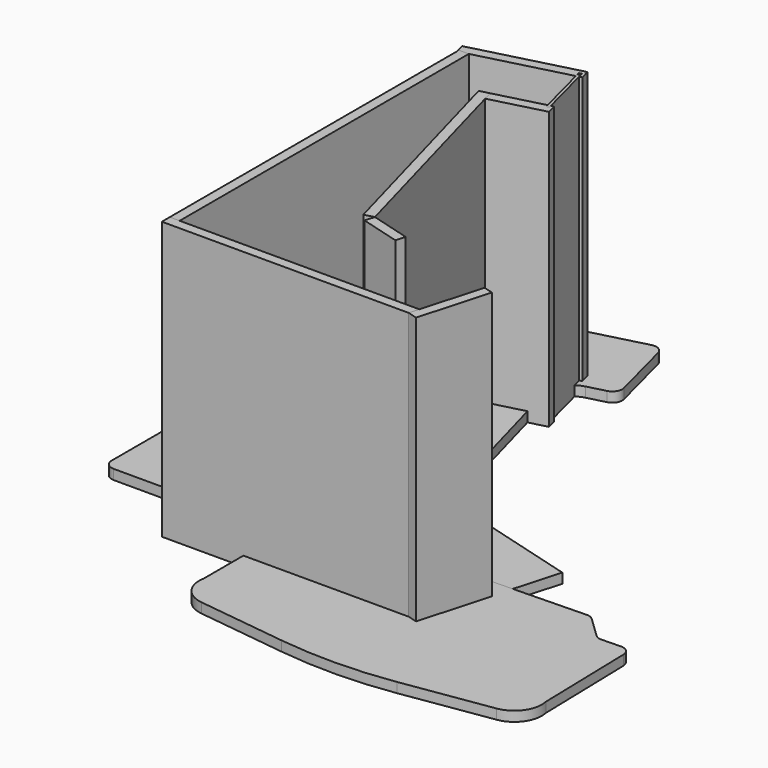
from build123d import *

# Parameters (mm, degrees)
F12_DEPTH = 18
F13_DEPTH = 504
F4_W      = 453.5115820138
F4_H      = 18


with BuildPart() as f12:
    # F9 (on Top) → F12 (new body)
    with BuildSketch(Plane.XY):
        with BuildLine():
            Line((-429.3817631771, 122.0754157483), (28.9864571738, 122.0754157483))
            ThreePointArc((28.9864571738, 122.0754157483), (39.8535736292, 125.7259983405), (46.3127671781, 135.1969957544))
            Line((46.3127671781, 135.1969957544), (78.9340205229, 251.0553984518))
            Line((78.9340205229, 251.0553984518), (-133.042143326, 310.7397025937))
            Line((-133.042143326, 310.7397025937), (-137.3737208271, 311.9593075922))
            Line((-137.3737208271, 311.9593075922), (-140.1796967751, 312.749362091))
            Line((-140.1796967751, 312.749362091), (-139.3896422763, 315.555338039))
            Line((-139.3896422763, 315.555338039), (-138.2825334442, 319.4873715371))
            ThreePointArc((-138.2825334442, 319.4873715371), (-138.4631106495, 321.0074168073), (-139.6656323342, 321.9545637591))
            Line((-139.6656323342, 321.9545637591), (-140.7590331261, 322.2624232101))
            ThreePointArc((-140.7590331261, 322.2624232101), (-184.576005593, 348.018267908), (-210.0724603784, 391.9866816348))
            Line((-210.0724603784, 391.9866816348), (-241.8817631771, 507.5754157483))
            Line((-241.8817631771, 507.5754157483), (-277.3817631771, 636.5754157483))
            Line((-277.3817631771, 636.5754157483), (-284.5491614764, 662.6203278781))
            ThreePointArc((-284.5491614764, 662.6203278781), (-280.1214549097, 697.0805388885), (-252.4699002319, 718.1162763898))
            Line((-252.4699002319, 718.1162763898), (-219.8457280188, 726.5860134067))
            ThreePointArc((-219.8457280188, 726.5860134067), (-208.8510002454, 734.8872643352), (-206.9464245034, 748.5315817251))
            Line((-206.9464245034, 748.5315817251), (-236.7237128133, 863.2292848446))
            ThreePointArc((-236.7237128133, 863.2292848446), (-245.0249637419, 874.2240126181), (-258.6692811317, 876.12858836))
            Line((-258.6692811317, 876.12858836), (-433.9048955786, 830.6347269171))
            ThreePointArc((-433.9048955786, 830.6347269171), (-443.6193258763, 824.2255470304), (-447.3817631771, 813.2122910002))
            Line((-447.3817631771, 813.2122910002), (-447.3817631771, 630.5646466931))
            Line((-447.3817631771, 630.5646466931), (-447.3817631771, 501.5646466931))
            Line((-447.3817631771, 501.5646466931), (-447.3817631771, 297.5646466931))
            Line((-447.3817631771, 297.5646466931), (-447.3817631771, 140.0754157483))
            ThreePointArc((-447.3817631771, 140.0754157483), (-442.1096852384, 127.347493687), (-429.3817631771, 122.0754157483))
        make_face()
    extrude(amount=F12_DEPTH)


with BuildPart() as f12b:
    # F10 (on Top) → F12, piece 2 (new body)
    with BuildSketch(Plane.XY):
        with BuildLine():
            Line((-617.2272465994, 102.2053729474), (-158.8590262485, 102.2053729474))
            ThreePointArc((-158.8590262485, 102.2053729474), (-147.9919097931, 105.8559555396), (-141.5327162442, 115.3269529535))
            Line((-141.5327162442, 115.3269529535), (-108.9114628994, 231.1853556509))
            Line((-108.9114628994, 231.1853556509), (-320.8876267483, 290.8696597928))
            Line((-320.8876267483, 290.8696597928), (-325.2192042494, 292.0892647913))
            Line((-325.2192042494, 292.0892647913), (-328.1245565168, 292.9072998251))
            Line((-328.1245565168, 292.9072998251), (-327.3065214829, 295.8126520925))
            Line((-327.3065214829, 295.8126520925), (-326.2273931858, 299.6453092712))
            ThreePointArc((-326.2273931858, 299.6453092712), (-326.4079703912, 301.1653545414), (-327.6104920759, 302.1125014932))
            Line((-327.6104920759, 302.1125014932), (-328.6045165484, 302.3923804091))
            ThreePointArc((-328.6045165484, 302.3923804091), (-372.4214890153, 328.1482251071), (-397.9179438007, 372.1166388339))
            Line((-397.9179438007, 372.1166388339), (-429.7272465994, 487.7053729474))
            Line((-429.7272465994, 487.7053729474), (-465.2272465994, 616.7053729474))
            Line((-465.2272465994, 616.7053729474), (-472.3946448986, 642.7502850772))
            ThreePointArc((-472.3946448986, 642.7502850772), (-467.966938332, 677.2104960876), (-440.3153836541, 698.2462335889))
            Line((-440.3153836541, 698.2462335889), (-407.6912114411, 706.7159706058))
            ThreePointArc((-407.6912114411, 706.7159706058), (-396.6964836677, 715.0172215343), (-394.7919079257, 728.6615389242))
            Line((-394.7919079257, 728.6615389242), (-424.5691962356, 843.3592420437))
            ThreePointArc((-424.5691962356, 843.3592420437), (-432.8704471642, 854.3539698172), (-446.514764554, 856.2585455591))
            Line((-446.514764554, 856.2585455591), (-621.7503790009, 810.7646841162))
            ThreePointArc((-621.7503790009, 810.7646841162), (-631.4648092986, 804.3555042295), (-635.2272465994, 793.3422481993))
            Line((-635.2272465994, 793.3422481993), (-635.2272465994, 610.6946038922))
            Line((-635.2272465994, 610.6946038922), (-635.2272465994, 481.6946038922))
            Line((-635.2272465994, 481.6946038922), (-635.2272465994, 277.6946038922))
            Line((-635.2272465994, 277.6946038922), (-635.2272465994, 120.2053729474))
            ThreePointArc((-635.2272465994, 120.2053729474), (-629.9551686607, 107.4774508861), (-617.2272465994, 102.2053729474))
        make_face()
    extrude(amount=F12_DEPTH)


with BuildPart() as f12c:
    # F11 (on Top) → F12, piece 3 (new body)
    with BuildSketch(Plane.XY):
        with BuildLine():
            Line((-2.114153737, 166.5), (-191.5736835543, 166.5))
            ThreePointArc((-191.5736835543, 166.5), (-198.5034431957, 165.112598572), (-204.3649407901, 161.1642701459))
            Line((-204.3649407901, 161.1642701459), (-241.3228965013, 123.8357298541))
            ThreePointArc((-241.3228965013, 123.8357298541), (-247.1843940957, 119.887401428), (-254.114153737, 118.5))
            Line((-254.114153737, 118.5), (-288.8032333315, 118.5))
            ThreePointArc((-288.8032333315, 118.5), (-301.5311553929, 113.2279220614), (-306.8032333315, 100.5))
            Line((-306.8032333315, 100.5), (-306.8032333315, -81.5))
            ThreePointArc((-306.8032333315, -81.5), (-297.9458808392, -120.018294448), (-263.8872117477, -140.0711934921))
            Line((-263.8872117477, -140.0711934921), (-101.5105416408, -160.6067478645))
            ThreePointArc((-101.5105416408, -160.6067478645), (2.1138129142, -166.4731585248), (105.5558033474, -157.9774980923))
            Line((105.5558033474, -157.9774980923), (267.3587007934, -133.3256347457))
            ThreePointArc((267.3587007934, -133.3256347457), (300.8972230342, -112.4144122501), (308.7736962041, -73.683638042))
            Line((308.7736962041, -73.683638042), (304.152507581, 108.2576838607))
            ThreePointArc((304.152507581, 108.2576838607), (298.5589528669, 120.8476382471), (285.7012702762, 125.7948398994))
            Line((285.7012702762, 125.7948398994), (251.0233746882, 124.914044405))
            ThreePointArc((251.0233746882, 124.914044405), (244.0606215382, 126.1250439842), (238.1007611478, 129.9232692982))
            Line((238.1007611478, 129.9232692982), (200.2069065179, 166.3013697428))
            ThreePointArc((200.2069065179, 166.3013697428), (194.2470461275, 170.0995950568), (187.2842929774, 171.310594636))
            Line((187.2842929774, 171.310594636), (-2.114153737, 166.5))
        make_face()
    extrude(amount=F12_DEPTH)


with BuildPart() as f13:
    # F2 (on Top) → F13 (new body)
    with BuildSketch(Plane.XY):
        Polygon((-271.0965097661, 726.7375479236), (-266.2569442336, 727.9939735907), (-270.7800766351, 745.4164095076), (-459.5231324015, 696.4158084913), (-455, 678.9933725744), (-275.9360752985, 725.4811222565), (-278.4489266327, 735.1602533215), (-273.6093611002, 736.4166789886), align=None)
    extrude(amount=F13_DEPTH)


with BuildPart() as f13b:
    # F1 (on Top) → F13, piece 2 (new body)
    with BuildSketch(Plane.XY):
        Polygon((-155.660380149, 188.6642868454), (-227.8533385, 208.9910368199), (-232.7317584939, 191.6647268157), (-160.5388001429, 171.3379768411), align=None)
    extrude(amount=F13_DEPTH)


with BuildPart() as f13c:
    # F4 (on Top) → F13, piece 3 (new body)
    with BuildSketch(Plane.XY):
        with Locations((-228.2442089931, 17.9933725744)):
            Rectangle(F4_W, F4_H)
    extrude(amount=F13_DEPTH)


with BuildPart() as f13d:
    # F3 (on Top) → F13, piece 4 (new body)
    with BuildSketch(Plane.XY):
        Polygon((-337.7116489579, 608.1944748218), (-332.9352006771, 590.8378036043), (-237.1078687572, 615.7160532374), (-241.6310011587, 633.1384891543), (-246.4705666912, 631.8820634872), (-245.2141410241, 627.0424979547), (-250.0537065566, 625.7860722876), (-251.3101322237, 630.6256378201), align=None)
    extrude(amount=F13_DEPTH)


with BuildPart() as f13e:
    # F5 (on Top) → F13, piece 5 (new body)
    with BuildSketch(Plane.XY):
        Polygon((-337.7116489579, 608.1944748218), (-355.1359263378, 603.6708643482), (-245.2776158799, 204.4674263463), (-227.8533385, 208.9910368199), align=None)
    extrude(amount=F13_DEPTH)


with BuildPart() as f13f:
    # F6 (on Top) → F13, piece 6 (new body)
    with BuildSketch(Plane.XY):
        Polygon((-437, 678.9933725744), (-437, 683.6664494975), (-455, 683.6664494975), (-455, 26.9933725744), (-437, 26.9933725744), align=None)
    extrude(amount=F13_DEPTH)


with BuildPart() as f13g:
    # F7 (on Top) → F13, piece 7 (new body)
    with BuildSketch(Plane.XY):
        Polygon((46.6900559198, 131.6902160334), (29.3637459156, 136.5686360273), (-6.5565230743, 8.9933725744), (10.7697869299, 4.1149525805), align=None)
    extrude(amount=F13_DEPTH)


with BuildPart() as f13h:
    # F8 (on Top) → F13, piece 8 (new body)
    with BuildSketch(Plane.XY):
        Polygon((-277.1925009656, 730.320687789), (-250.0537065566, 625.7860722876), (-245.2141410241, 627.0424979547), (-272.3529354331, 731.5771134561), align=None)
    extrude(amount=F13_DEPTH)


solid = Compound([f12.part, f12b.part, f12c.part, f13.part, f13b.part, f13c.part, f13d.part, f13e.part, f13f.part, f13g.part, f13h.part])
